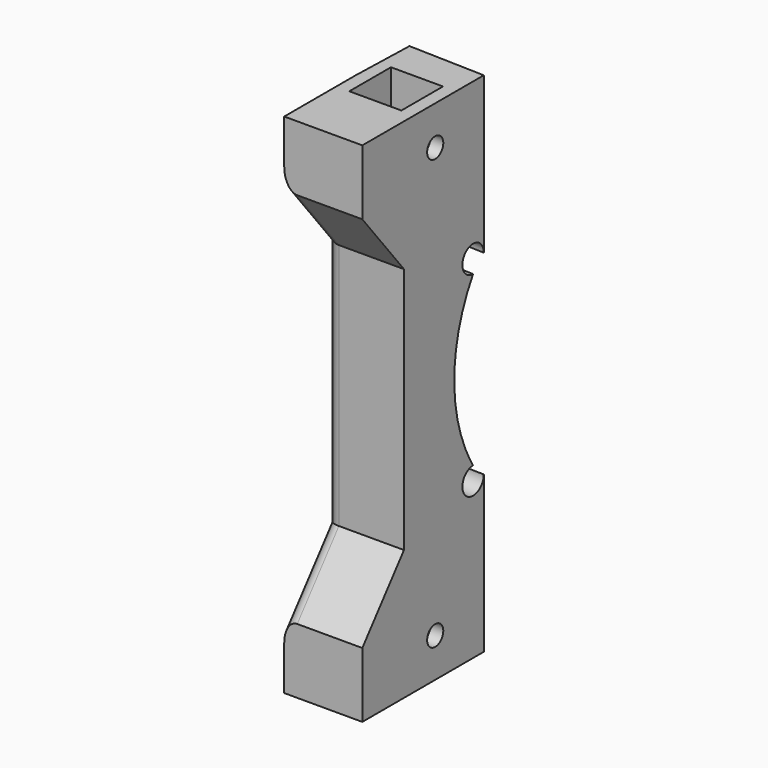
from build123d import *

# Parameters (mm, degrees)
PAD_DEPTH       = 80
POCKET_DEPTH    = 78
POCKET001_DEPTH = 408.7079232475
POCKET002_DEPTH = 408.4326470939
SKETCH004_W     = 93.184578
SKETCH004_H     = 155.633668
SKETCH004_W_2   = 509.235046
SKETCH004_H_2   = 157.082754
POCKET003_DEPTH = 80.001
POCKET004_DEPTH = 12.001
SKETCH006_W     = 8
SKETCH006_H     = 8
POCKET005_DEPTH = 10
SKETCH007_W     = 8
SKETCH007_H     = 8
POCKET006_DEPTH = 10
SKETCH008_R     = 1.55
POCKET007_DEPTH = 12.001
FILLET_R        = 2
FILLET001_R     = 2
FILLET002_R     = 2


with BuildPart() as part:
    # Sketch → Pad (new body)
    with BuildSketch(Plane.XY):
        Polygon((450, 0), (450, 90), (356, 87.18), (355.64, 99.18), (343.64, 98.82), (344, 86.82), (6, 76.68), (5.64, 88.6800000001), (-6.36, 88.3200000001), (-6, 76.32), (-50, 75), (-50, 0), align=None)
    extrude(amount=PAD_DEPTH)

    # Sketch001 (on Face14 of Pad) → Pocket (cut)
    with BuildSketch(Plane.XY.offset(80)):
        Polygon((-50, 15), (-50, 74), (450, 74), (450, 0), (356, 2.82), (356.3, 12.82), (344.3, 13.18), (344, 3.18), (6, 13.32), (6.3, 23.32), (-5.7, 23.68), (-6, 13.68), align=None)
    extrude(amount=-POCKET_DEPTH, mode=Mode.SUBTRACT)

    # Sketch002 (on Face26 of Pocket) → Pocket001 (cut, through all)
    with BuildSketch(Plane(origin=(355.5953641722, -10.6678609252, 0), x_dir=(0.0299865091, 0.9995503035, 0), z_dir=(0.9995503035, -0.0299865091, 0))):
        with BuildLine():
            ThreePointArc((23.4984280855, 56), (19.9988591841, 57.4495689014), (21.4484280855, 53.95))
            ThreePointArc((21.4484280855, 53.95), (17.8329435114, 41), (21.4484280855, 28.05))
            ThreePointArc((21.4484280855, 28.05), (19.9988591841, 24.5504310986), (23.4984280855, 26))
            Line((23.4984280855, 26), (23.4984280855, 56))
        make_face()
    extrude(amount=-POCKET001_DEPTH, mode=Mode.SUBTRACT)

    # Sketch003 (on Face14 of Pocket001) → Pocket002 (cut, through all)
    with BuildSketch(Plane(origin=(358.2929363573, 10.7487880907, 0), x_dir=(-0.0299865091, 0.9995503035, 0), z_dir=(0.9995503035, 0.0299865091, 0))):
        with BuildLine():
            ThreePointArc((88.470997005, 56), (84.9714281036, 57.4495689014), (86.420997005, 53.95))
            ThreePointArc((86.420997005, 53.95), (82.8055124309, 41), (86.420997005, 28.05))
            ThreePointArc((86.420997005, 28.05), (84.9714281036, 24.5504310986), (88.470997005, 26))
            Line((88.470997005, 26), (88.470997005, 56))
        make_face()
    extrude(amount=-POCKET002_DEPTH, mode=Mode.SUBTRACT)

    # Sketch004 (on Face7 of Pocket002) → Pocket003 (cut, through all)
    with BuildSketch(Plane.XY.offset(80)):
        with Locations((-52.592289, 54.389678)):
            Rectangle(SKETCH004_W, SKETCH004_H)
        with Locations((260.617523, 52.795659)):
            Rectangle(SKETCH004_W_2, SKETCH004_H_2)
    extrude(amount=-POCKET003_DEPTH, mode=Mode.SUBTRACT)

    # Sketch005 (on Face3 of Pocket003) → Pocket004 (cut, through all)
    with BuildSketch(Plane(origin=(-6, 0, 0), x_dir=(0, -1, 0), z_dir=(-1, 0, 0))):
        Polygon((12.873752, 2), (-23.68, 2), (-23.68, 84.957535), (-97.468468, 84.957535), (-97.468468, -3.470766), (12.873752, -3.470766), align=None)
    extrude(amount=-POCKET004_DEPTH, mode=Mode.SUBTRACT)

    # Sketch006 (on Face4 of Pocket004) → Pocket005 (cut)
    with BuildSketch(Plane.XY.offset(80)):
        with Locations((0, 14)):
            Rectangle(SKETCH006_W, SKETCH006_H)
    extrude(amount=-POCKET005_DEPTH, mode=Mode.SUBTRACT)

    # Sketch007 (on Face2 of Pocket005) → Pocket006 (cut)
    with BuildSketch(Plane(origin=(0, 0, 2), x_dir=(1, 0, 0), z_dir=(0, 0, -1))):
        with Locations((0, -14)):
            Rectangle(SKETCH007_W, SKETCH007_H)
    extrude(amount=-POCKET006_DEPTH, mode=Mode.SUBTRACT)

    # Sketch008 (on Face1 of Pocket006) → Pocket007 (cut, through all)
    with BuildSketch(Plane(origin=(-6, 0, 0), x_dir=(0, -1, 0), z_dir=(-1, 0, 0))):
        with Locations((-14, 8)):
            Circle(SKETCH008_R)
        with Locations((-14, 74)):
            Circle(SKETCH008_R)
        Polygon((-8, 22), (-8, 60), (0, 70), (0, 12), align=None)
    extrude(amount=-POCKET007_DEPTH, mode=Mode.SUBTRACT)

    # Fillet
    fillet_edges = [part.edges().sort_by_distance(p)[0] for p in [
        (-6, 8, 41),
    ]]
    fillet(fillet_edges, radius=FILLET_R)

    # Fillet001
    fillet001_edges = [part.edges().sort_by_distance(p)[0] for p in [
        (-6, 4, 65),
    ]]
    fillet(fillet001_edges, radius=FILLET001_R)

    # Fillet002
    fillet002_edges = [part.edges().sort_by_distance(p)[0] for p in [
        (-6, 4, 17),
    ]]
    fillet(fillet002_edges, radius=FILLET002_R)


solid = part.part
